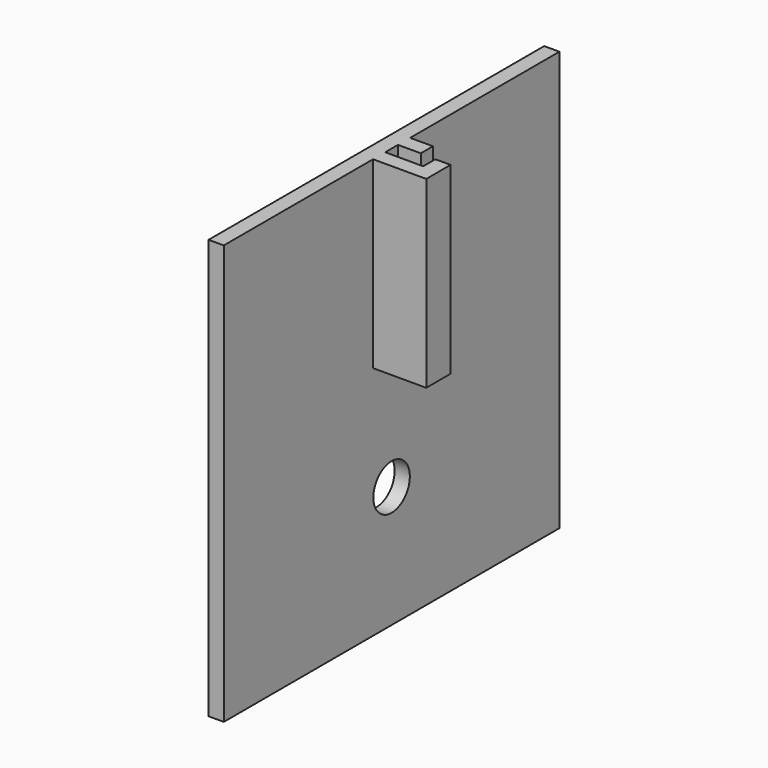
from build123d import *

# Parameters (mm, degrees)
SKETCH011_W     = 55.2
SKETCH011_H     = 55.2
SKETCH011_R     = 3
PAD007_DEPTH    = 2
SKETCH012_W     = 2
SKETCH012_H     = 24.2
PAD008_DEPTH    = 3
PAD008_FACE17_W = 2
PAD008_FACE17_H = 24.2
PAD010_DEPTH    = 4
SKETCH013_W     = 24.2
SKETCH013_H     = 2
PAD011_DEPTH    = 2


with BuildPart() as part:
    # Sketch011 (on DatumPlane) → Pad007 (new body)
    with BuildSketch(Plane(origin=(-57, 0, 0), x_dir=(0, 1, 0), z_dir=(-1, 0, 0))):
        with Locations((-89.497575, -0.4616)):
            Rectangle(SKETCH011_W, SKETCH011_H)
        with Locations((-89.497575, 11.1384)):
            Circle(SKETCH011_R, mode=Mode.SUBTRACT)
    extrude(amount=-PAD007_DEPTH)

    # Sketch012 (on Face7 of Pad007) → Pad008 (join)
    with BuildSketch(Plane.YZ.offset(-55)):
        with Locations((-87.447575, 15.9616)):
            Rectangle(SKETCH012_W, SKETCH012_H)
        with Locations((-91.547575, 15.9616)):
            Rectangle(SKETCH012_W, SKETCH012_H)
    extrude(amount=PAD008_DEPTH)

    # Pad008 Face17 → Pad010 (add)
    with BuildSketch(Plane(origin=(-52, -91.547575, 15.9616), x_dir=(0, -1, 0), z_dir=(1, 0, 0))):
        Rectangle(PAD008_FACE17_W, PAD008_FACE17_H)
    extrude(amount=PAD010_DEPTH)

    # Sketch013 (on Face20 of Pad010) → Pad011 (join)
    with BuildSketch(Plane(origin=(-57, -90.547575, 0), x_dir=(0, 0, -1), z_dir=(0, 1, 0))):
        with Locations((-15.9616, -8)):
            Rectangle(SKETCH013_W, SKETCH013_H)
    extrude(amount=PAD011_DEPTH)


solid = part.part
